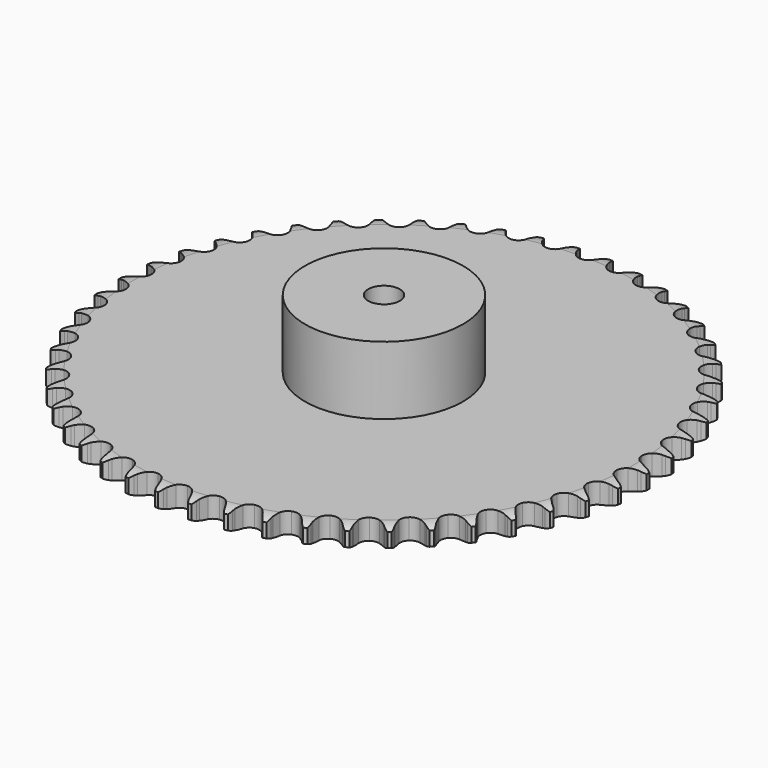
from build123d import *

# Parameters (mm, degrees)
PAD_DEPTH         = 16.2
SKETCH001_R       = 62.5
PAD001_DEPTH      = 70
SKETCH002_R       = 12.5
POCKET_DEPTH      = 0.0010001
POCKET_DEPTH_BACK = 70.001


with BuildPart() as part:
    # Sprocket → Pad (new body)
    with BuildSketch(Plane.XY):
        with BuildLine():
            ThreePointArc((-13.2146682661, 210.0411373515), (-11.3607319116, 207.756814352), (-10.0756342008, 205.1103572022))
            Line((-10.0756342008, 205.1103572022), (-9.3032388608, 202.9072080021))
            ThreePointArc((-9.3032388608, 202.9072080021), (-8.0852287828, 200.1113159985), (-6.4700463907, 197.524474974))
            ThreePointArc((-6.4700463907, 197.524474974), (-3.6275310123, 195.109578863), (0, 194.2420330958))
            ThreePointArc((0, 194.2420330958), (3.6275310123, 195.109578863), (6.4700463907, 197.524474974))
            ThreePointArc((6.4700463907, 197.524474974), (8.0852287828, 200.1113159985), (9.3032388608, 202.9072080021))
            Line((9.3032388608, 202.9072080021), (10.0756342008, 205.1103572022))
            ThreePointArc((10.0756342008, 205.1103572022), (11.3607319116, 207.756814352), (13.2146682661, 210.0411373515))
            ThreePointArc((13.2146682661, 210.0411373515), (14.7676841905, 207.5424670831), (15.71095949, 204.7558125868))
            Line((15.71095949, 204.7558125868), (16.2011364487, 202.4732290706))
            ThreePointArc((16.2011364487, 202.4732290706), (17.059123968, 199.546726369), (18.3373530142, 196.7778473266))
            ThreePointArc((18.3373530142, 196.7778473266), (20.8547875715, 194.0257317489), (24.344982102, 192.7103766476))
            ThreePointArc((24.344982102, 192.7103766476), (28.0526412651, 193.1164313656), (31.175409299, 195.1560236557))
            Line((31.175409299, 195.1560236557), (34.6608965361, 200.1412190525))
            ThreePointArc((34.6608965361, 200.1412190525), (35.1526702199, 201.2003963827), (35.7033291213, 202.2301889576))
            ThreePointArc((35.7033291213, 202.2301889576), (37.309982485, 204.6947125508), (39.4356015855, 206.728663143))
            ThreePointArc((39.4356015855, 206.728663143), (40.6632050912, 204.0550511283), (41.2497819644, 201.1721464916))
            Line((41.2497819644, 201.1721464916), (41.4500101584, 198.846126365))
            ThreePointArc((41.4500101584, 198.846126365), (41.9344441432, 195.8351656611), (42.8555614078, 192.9279154774))
            ThreePointArc((42.8555614078, 192.9279154774), (45.0082136972, 189.8819829397), (48.3060292933, 188.13956244))
            ThreePointArc((48.3060292933, 188.13956244), (52.0353446072, 188.0777223834), (55.3891173793, 189.7098452637))
            Line((55.3891173793, 189.7098452637), (59.4719311675, 194.2188835198))
            ThreePointArc((59.4719311675, 194.2188835198), (60.0925771887, 195.2080733345), (60.7679612135, 196.1607298266))
            ThreePointArc((60.7679612135, 196.1607298266), (62.6708323466, 198.4044528539), (65.0346119103, 200.155954423))
            ThreePointArc((65.0346119103, 200.155954423), (65.9174429566, 197.3495651207), (66.1380707358, 194.4158754719))
            Line((66.1380707358, 194.4158754719), (66.0451924468, 192.0831014617))
            ThreePointArc((66.0451924468, 192.0831014617), (66.1484330838, 189.0351674046), (66.6979119974, 186.0353951517))
            ThreePointArc((66.6979119974, 186.0353951517), (68.4518334063, 182.7436818296), (71.505261546, 180.6016749436))
            ThreePointArc((71.505261546, 180.6016749436), (75.1974194805, 180.0729153671), (78.7293059908, 181.2718292848))
            Line((78.7293059908, 181.2718292848), (83.3450579177, 185.2336001734))
            ThreePointArc((83.3450579177, 185.2336001734), (84.0847883177, 186.1372023581), (84.8742462563, 186.9976988056))
            ThreePointArc((84.8742462563, 186.9976988056), (87.0433257444, 188.9852364144), (89.6079875555, 190.4266667344))
            ThreePointArc((89.6079875555, 190.4266667344), (90.1321233694, 187.5317585802), (89.9833226227, 184.5935499576))
            Line((89.9833226227, 184.5935499576), (89.5988025969, 182.2908113035))
            ThreePointArc((89.5988025969, 182.2908113035), (89.3192217196, 179.2539716339), (89.4883966714, 176.2089855122))
            ThreePointArc((89.4883966714, 176.2089855122), (90.8159268115, 172.7234036913), (93.5768131089, 170.2155911472))
            ThreePointArc((93.5768131089, 170.2155911472), (97.1735861278, 169.2282509051), (100.8278864161, 169.9750482715))
            Line((100.8278864161, 169.9750482715), (105.9037833165, 173.327072299))
            ThreePointArc((105.9037833165, 173.327072299), (106.750932105, 174.1308365076), (107.6420137343, 174.8856023673))
            ThreePointArc((107.6420137343, 174.8856023673), (110.0430938981, 176.5856099024), (112.7681917077, 177.694236756))
            ThreePointArc((112.7681917077, 177.694236756), (112.9253663544, 174.7564641809), (112.4094837584, 171.8600738896))
            Line((112.4094837584, 171.8600738896), (111.7393861063, 169.6236861558))
            ThreePointArc((111.7393861063, 169.6236861558), (111.0813928721, 166.6458336495), (110.8675958721, 163.6036549091))
            ThreePointArc((110.8675958721, 163.6036549091), (111.7477988001, 159.9791742968), (114.172602429, 157.1451057965))
            ThreePointArc((114.172602429, 157.1451057965), (117.6172672732, 155.7147558342), (121.336350841, 155.9976592088))
            Line((121.336350841, 155.9976592088), (126.7923427886, 158.6870729539))
            ThreePointArc((126.7923427886, 158.6870729539), (127.7335499232, 159.3783233447), (128.7122023534, 160.0154555082))
            ThreePointArc((128.7122023534, 160.0154555082), (131.3074167244, 161.4011228351), (134.1499741122, 162.1594625145))
            ThreePointArc((134.1499741122, 162.1594625145), (133.9377088535, 159.225155947), (133.062880185, 156.4162617921))
            Line((133.062880185, 156.4162617921), (132.1177727469, 154.2814941491))
            ThreePointArc((132.1177727469, 154.2814941491), (131.0917441022, 151.409591319), (130.4983468567, 148.4181969359))
            ThreePointArc((130.4983468567, 148.4181969359), (130.9173412466, 144.7119777567), (132.9678216055, 141.5963482534))
            ThreePointArc((132.9678216055, 141.5963482534), (136.2060538526, 139.7455460444), (139.9312685303, 139.5600938719))
            Line((139.9312685303, 139.5600938719), (145.6813112728, 141.5444836732))
            ThreePointArc((145.6813112728, 141.5444836732), (146.7017333547, 142.1123188146), (147.7525226525, 142.6217693271))
            ThreePointArc((147.7525226525, 142.6217693271), (150.5009431498, 143.6712436443), (153.4161312877, 144.0673366799))
            ThreePointArc((153.4161312877, 144.0673366799), (152.8377736736, 141.1827718873), (151.6177955033, 138.5056718077))
            Line((151.6177955033, 138.5056718077), (150.412583188, 136.5061908164))
            ThreePointArc((150.412583188, 136.5061908164), (149.0347002174, 133.7855292856), (148.0710609556, 130.8920953364))
            ThreePointArc((148.0710609556, 130.8920953364), (148.0222390155, 127.1625868806), (149.666058804, 123.8145317128))
            ThreePointArc((149.666058804, 123.8145317128), (152.6467895971, 121.5724655134), (156.319386524, 120.9215824855))
            Line((156.319386524, 120.9215824855), (162.2727984525, 122.1696533304))
            ThreePointArc((162.2727984525, 122.1696533304), (163.3563428159, 122.605118123), (164.4626974063, 122.9788526455))
            ThreePointArc((164.4626974063, 122.9788526455), (167.3209797967, 123.6755831162), (170.2628244264, 123.7031828841))
            ThreePointArc((170.2628244264, 123.7031828841), (169.3274955019, 120.9138511764), (167.7816076143, 118.4107646395))
            Line((167.7816076143, 118.4107646395), (166.3352973401, 116.5781033097))
            ThreePointArc((166.3352973401, 116.5781033097), (164.6272900811, 114.0515895359), (163.3086059698, 111.3017472022))
            ThreePointArc((163.3086059698, 111.3017472022), (162.7927376509, 107.6077660462), (164.0039728491, 104.0800860439))
            ThreePointArc((164.0039728491, 104.0800860439), (166.680194283, 101.4821145775), (170.2422544116, 100.3760655083))
            Line((170.2422544116, 100.3760655083), (176.3051466635, 100.8681345741))
            ThreePointArc((176.3051466635, 100.8681345741), (177.4347251665, 101.1643614779), (178.5791971767, 101.3964859938))
            ThreePointArc((178.5791971767, 101.3964859938), (181.5022646396, 101.7294847622), (184.4243711138, 101.3881559975))
            ThreePointArc((184.4243711138, 101.3881559975), (183.1468215749, 98.7380468021), (181.2994035455, 96.4484489778))
            Line((181.2994035455, 96.4484489778), (179.6348044892, 94.8115094734))
            ThreePointArc((179.6348044892, 94.8115094734), (177.6236092367, 92.518988088), (175.970676712, 89.9561040262))
            ThreePointArc((175.970676712, 89.9561040262), (174.9958975659, 86.3559064594), (175.7554462711, 82.7042352437))
            ThreePointArc((175.7554462711, 82.7042352437), (178.084952735, 79.7913300722), (181.4803002492, 78.2475580162))
            Line((181.4803002492, 78.2475580162), (187.557057392, 77.9758650797))
            ThreePointArc((187.557057392, 77.9758650797), (188.7148559069, 78.1281824196), (189.8793963296, 78.2150361866))
            ThreePointArc((189.8793963296, 78.2150361866), (192.8211503449, 78.1790516632), (195.677435299, 77.4741773246))
            ThreePointArc((195.677435299, 77.4741773246), (194.077812865, 75.0050844464), (191.9579995796, 72.9650836603))
            Line((191.9579995796, 72.9650836603), (190.1013634629, 71.5496814951))
            ThreePointArc((190.1013634629, 71.5496814951), (187.8186979675, 69.5273069299), (185.8575847627, 67.1917993526))
            ThreePointArc((185.8575847627, 67.1917993526), (184.4392676388, 63.7421626413), (184.7351513142, 60.0240892486))
            ThreePointArc((184.7351513142, 60.0240892486), (186.6812050997, 56.8421886267), (189.8562933409, 54.8850397913))
            Line((189.8562933409, 54.8850397913), (195.8510812843, 53.8538696125))
            ThreePointArc((195.8510812843, 53.8538696125), (197.0188406368, 53.859875253), (198.1850839739, 53.8000885353))
            ThreePointArc((198.1850839739, 53.8000885353), (201.0991313235, 53.3956882175), (203.8445494375, 52.3383845944))
            ThreePointArc((203.8445494375, 52.3383845944), (201.9480811098, 50.0892471032), (199.5893032903, 48.3310153861))
            Line((199.5893032903, 48.3310153861), (197.5699103737, 47.1594722978))
            ThreePointArc((197.5699103737, 47.1594722978), (195.0517736338, 45.4391386078), (192.8134076757, 43.3678398647))
            ThreePointArc((192.8134076757, 43.3678398647), (190.9739202824, 40.1231668406), (190.8014726657, 36.3973275093))
            ThreePointArc((190.8014726657, 36.3973275093), (192.3333833419, 32.9966119106), (195.238139272, 30.6569517023))
            Line((195.238139272, 30.6569517023), (201.056416629, 28.8825664508))
            ThreePointArc((201.056416629, 28.8825664508), (202.2157205565, 28.7421656794), (203.365274454, 28.5366813493))
            ThreePointArc((203.365274454, 28.5366813493), (206.2056588703, 27.7702428717), (208.7969132605, 26.3771842737))
            ThreePointArc((208.7969132605, 26.3771842737), (206.6335074775, 24.3834724112), (204.0729644592, 22.9347381278))
            Line((204.0729644592, 22.9347381278), (201.9226617754, 22.0255300508))
            ThreePointArc((201.9226617754, 22.0255300508), (199.2087663117, 20.6343679259), (196.7284479686, 18.8599436355))
            ThreePointArc((196.7284479686, 18.8599436355), (194.4968001208, 15.8714047304), (193.8587408139, 12.1965581725))
            ThreePointArc((193.8587408139, 12.1965581725), (194.9523492345, 8.6306589135), (197.5409631171, 5.9453851713))
            Line((197.5409631171, 5.9453851713), (203.0909721782, 3.4557679626))
            ThreePointArc((203.0909721782, 3.4557679626), (204.2235377653, 3.1711749832), (205.3382730713, 2.8232336513))
            ThreePointArc((205.3382730713, 2.8232336513), (208.0601999954, 1.7068442066), (210.4564250321, 0))
            ThreePointArc((210.4564250321, 0), (208.0601999954, -1.7068442066), (205.3382730713, -2.8232336513))
            Line((205.3382730713, -2.8232336513), (203.0909721782, -3.4557679626))
            ThreePointArc((203.0909721782, -3.4557679626), (200.2241177432, -4.4958190646), (197.5409631171, -5.9453851713))
            ThreePointArc((197.5409631171, -5.9453851713), (194.9523492345, -8.6306589135), (193.8587408139, -12.1965581725))
            ThreePointArc((193.8587408139, -12.1965581725), (194.4968001208, -15.8714047304), (196.7284479686, -18.8599436355))
            Line((196.7284479686, -18.8599436355), (201.9226617754, -22.0255300508))
            ThreePointArc((201.9226617754, -22.0255300508), (203.0106277862, -22.4498270367), (204.0729644592, -22.9347381278))
            ThreePointArc((204.0729644592, -22.9347381278), (206.6335074775, -24.3834724112), (208.7969132605, -26.3771842737))
            ThreePointArc((208.7969132605, -26.3771842737), (206.2056588703, -27.7702428717), (203.365274454, -28.5366813493))
            Line((203.365274454, -28.5366813493), (201.056416629, -28.8825664508))
            ThreePointArc((201.056416629, -28.8825664508), (198.0818152299, -29.5551043027), (195.238139272, -30.6569517023))
            ThreePointArc((195.238139272, -30.6569517023), (192.3333833419, -32.9966119106), (190.8014726657, -36.3973275093))
            ThreePointArc((190.8014726657, -36.3973275093), (190.9739202824, -40.1231668406), (192.8134076757, -43.3678398647))
            Line((192.8134076757, -43.3678398647), (197.5699103737, -47.1594722978))
            ThreePointArc((197.5699103737, -47.1594722978), (198.5961189343, -47.7167818735), (199.5893032903, -48.3310153861))
            ThreePointArc((199.5893032903, -48.3310153861), (201.9480811098, -50.0892471032), (203.8445494375, -52.3383845944))
            ThreePointArc((203.8445494375, -52.3383845944), (201.0991313235, -53.3956882175), (198.1850839739, -53.8000885353))
            Line((198.1850839739, -53.8000885353), (195.8510812843, -53.8538696125))
            ThreePointArc((195.8510812843, -53.8538696125), (192.8156441621, -54.1482878907), (189.8562933409, -54.8850397913))
            ThreePointArc((189.8562933409, -54.8850397913), (186.6812050997, -56.8421886267), (184.7351513142, -60.0240892486))
            ThreePointArc((184.7351513142, -60.0240892486), (184.4392676388, -63.7421626413), (185.8575847627, -67.1917993526))
            Line((185.8575847627, -67.1917993526), (190.1013634629, -71.5496814951))
            ThreePointArc((190.1013634629, -71.5496814951), (191.0496306513, -72.2312145555), (191.9579995796, -72.9650836603))
            ThreePointArc((191.9579995796, -72.9650836603), (194.077812865, -75.0050844464), (195.677435299, -77.4741773246))
            ThreePointArc((195.677435299, -77.4741773246), (192.8211503449, -78.1790516632), (189.8793963296, -78.2150361866))
            Line((189.8793963296, -78.2150361866), (187.557057392, -77.9758650797))
            ThreePointArc((187.557057392, -77.9758650797), (184.5086552033, -77.8875206319), (181.4803002492, -78.2475580162))
            ThreePointArc((181.4803002492, -78.2475580162), (178.084952735, -79.7913300722), (175.7554462711, -82.7042352437))
            ThreePointArc((175.7554462711, -82.7042352437), (174.9958975659, -86.3559064594), (175.970676712, -89.9561040262))
            Line((175.970676712, -89.9561040262), (179.6348044892, -94.8115094734))
            ThreePointArc((179.6348044892, -94.8115094734), (180.4901755653, -95.6065178351), (181.2994035455, -96.4484489778))
            ThreePointArc((181.2994035455, -96.4484489778), (183.1468215749, -98.7380468021), (184.4243711138, -101.3881559975))
            ThreePointArc((184.4243711138, -101.3881559975), (181.5022646396, -101.7294847622), (178.5791971767, -101.3964859938))
            Line((178.5791971767, -101.3964859938), (176.3051466635, -100.8681345741))
            ThreePointArc((176.3051466635, -100.8681345741), (173.2918545319, -100.3984206451), (170.2422544116, -100.3760655083))
            ThreePointArc((170.2422544116, -100.3760655083), (166.680194283, -101.4821145775), (164.0039728491, -104.0800860439))
            ThreePointArc((164.0039728491, -104.0800860439), (162.7927376509, -107.6077660462), (163.3086059698, -111.3017472022))
            Line((163.3086059698, -111.3017472022), (166.3352973401, -116.5781033097))
            ThreePointArc((166.3352973401, -116.5781033097), (167.0842825911, -117.4740492158), (167.7816076143, -118.4107646395))
            ThreePointArc((167.7816076143, -118.4107646395), (169.3274955019, -120.9138511764), (170.2628244264, -123.7031828841))
            ThreePointArc((170.2628244264, -123.7031828841), (167.3209797967, -123.6755831162), (164.4626974063, -122.9788526455))
            Line((164.4626974063, -122.9788526455), (162.2727984525, -122.1696533304))
            ThreePointArc((162.2727984525, -122.1696533304), (159.3421377949, -121.3259775896), (156.319386524, -120.9215824855))
            ThreePointArc((156.319386524, -120.9215824855), (152.6467895971, -121.5724655134), (149.666058804, -123.8145317128))
            ThreePointArc((149.666058804, -123.8145317128), (148.0222390155, -127.1625868806), (148.0710609556, -130.8920953364))
            Line((148.0710609556, -130.8920953364), (150.412583188, -136.5061908164))
            ThreePointArc((150.412583188, -136.5061908164), (151.0433706691, -137.4889446649), (151.6177955033, -138.5056718077))
            ThreePointArc((151.6177955033, -138.5056718077), (152.8377736736, -141.1827718873), (153.4161312877, -144.0673366799))
            ThreePointArc((153.4161312877, -144.0673366799), (150.5009431498, -143.6712436443), (147.7525226525, -142.6217693271))
            Line((147.7525226525, -142.6217693271), (145.6813112728, -141.5444836732))
            ThreePointArc((145.6813112728, -141.5444836732), (142.8795003585, -140.3401513909), (139.9312685303, -139.5600938719))
            ThreePointArc((139.9312685303, -139.5600938719), (136.2060538526, -139.7455460444), (132.9678216055, -141.5963482534))
            ThreePointArc((132.9678216055, -141.5963482534), (130.9173412466, -144.7119777567), (130.4983468567, -148.4181969359))
            Line((130.4983468567, -148.4181969359), (132.1177727469, -154.2814941491))
            ThreePointArc((132.1177727469, -154.2814941491), (132.6204145627, -155.3355573247), (133.062880185, -156.4162617921))
            ThreePointArc((133.062880185, -156.4162617921), (133.9377088535, -159.225155947), (134.1499741122, -162.1594625145))
            ThreePointArc((134.1499741122, -162.1594625145), (131.3074167244, -161.4011228351), (128.7122023534, -160.0154555082))
            Line((128.7122023534, -160.0154555082), (126.7923427886, -158.6870729539))
            ThreePointArc((126.7923427886, -158.6870729539), (124.1635678495, -157.1410771696), (121.336350841, -155.9976592088))
            ThreePointArc((121.336350841, -155.9976592088), (117.6172672732, -155.7147558342), (114.172602429, -157.1451057965))
            ThreePointArc((114.172602429, -157.1451057965), (111.7477988001, -159.9791742968), (110.8675958721, -163.6036549091))
            Line((110.8675958721, -163.6036549091), (111.7393861063, -169.6236861558))
            ThreePointArc((111.7393861063, -169.6236861558), (112.1059552951, -170.7324354525), (112.4094837584, -171.8600738896))
            ThreePointArc((112.4094837584, -171.8600738896), (112.9253663544, -174.7564641809), (112.7681917077, -177.694236756))
            ThreePointArc((112.7681917077, -177.694236756), (110.0430938981, -176.5856099024), (107.6420137343, -174.8856023673))
            Line((107.6420137343, -174.8856023673), (105.9037833165, -173.327072299))
            ThreePointArc((105.9037833165, -173.327072299), (103.4895017037, -171.4637942898), (100.8278864161, -169.9750482715))
            ThreePointArc((100.8278864161, -169.9750482715), (97.1735861278, -169.2282509051), (93.5768131089, -170.2155911472))
            ThreePointArc((93.5768131089, -170.2155911472), (90.8159268115, -172.7234036913), (89.4883966714, -176.2089855122))
            Line((89.4883966714, -176.2089855122), (89.5988025969, -182.2908113035))
            ThreePointArc((89.5988025969, -182.2908113035), (89.8235181436, -183.4367610826), (89.9833226227, -184.5935499576))
            ThreePointArc((89.9833226227, -184.5935499576), (90.1321233694, -187.5317585802), (89.6079875555, -190.4266667344))
            ThreePointArc((89.6079875555, -190.4266667344), (87.0433257444, -188.9852364144), (84.8742462563, -186.9976988056))
            Line((84.8742462563, -186.9976988056), (83.3450579177, -185.2336001734))
            ThreePointArc((83.3450579177, -185.2336001734), (81.1833442944, -183.0824249465), (78.7293059908, -181.2718292848))
            ThreePointArc((78.7293059908, -181.2718292848), (75.1974194805, -180.0729153671), (71.505261546, -180.6016749436))
            ThreePointArc((71.505261546, -180.6016749436), (68.4518334063, -182.7436818296), (66.6979119974, -186.0353951517))
            Line((66.6979119974, -186.0353951517), (66.0451924468, -192.0831014617))
            ThreePointArc((66.0451924468, -192.0831014617), (66.124510453, -193.2481794106), (66.1380707358, -194.4158754719))
            ThreePointArc((66.1380707358, -194.4158754719), (65.9174429566, -197.3495651207), (65.0346119103, -200.155954423))
            ThreePointArc((65.0346119103, -200.155954423), (62.6708323466, -198.4044528539), (60.7679612135, -196.1607298266))
            Line((60.7679612135, -196.1607298266), (59.4719311675, -194.2188835198))
            ThreePointArc((59.4719311675, -194.2188835198), (57.596877049, -191.8137363937), (55.3891173793, -189.7098452637))
            ThreePointArc((55.3891173793, -189.7098452637), (52.0353446072, -188.0777223834), (48.3060292933, -188.13956244))
            ThreePointArc((48.3060292933, -188.13956244), (45.0082136972, -189.8819829397), (42.8555614078, -192.9279154774))
            Line((42.8555614078, -192.9279154774), (41.4500101584, -198.846126365))
            ThreePointArc((41.4500101584, -198.846126365), (41.3826797317, -200.0119585084), (41.2497819644, -201.1721464916))
            ThreePointArc((41.2497819644, -201.1721464916), (40.6632050912, -204.0550511283), (39.4356015855, -206.728663143))
            ThreePointArc((39.4356015855, -206.728663143), (37.309982485, -204.6947125508), (35.7033291213, -202.2301889576))
            Line((35.7033291213, -202.2301889576), (34.6608965361, -200.1412190525))
            ThreePointArc((34.6608965361, -200.1412190525), (33.1020726458, -197.520030634), (31.175409299, -195.1560236557))
            ThreePointArc((31.175409299, -195.1560236557), (28.0526412651, -193.1164313656), (24.344982102, -192.7103766476))
            ThreePointArc((24.344982102, -192.7103766476), (20.8547875715, -194.0257317489), (18.3373530142, -196.7778473266))
            Line((18.3373530142, -196.7778473266), (16.2011364487, -202.4732290706))
            ThreePointArc((16.2011364487, -202.4732290706), (15.9882194302, -203.6214295392), (15.71095949, -204.7558125868))
            ThreePointArc((15.71095949, -204.7558125868), (14.7676841905, -207.5424670831), (13.2146682661, -210.0411373515))
            ThreePointArc((13.2146682661, -210.0411373515), (11.3607319116, -207.756814352), (10.0756342008, -205.1103572022))
            Line((10.0756342008, -205.1103572022), (9.3032388608, -202.9072080021))
            ThreePointArc((9.3032388608, -202.9072080021), (8.0852287828, -200.1113159985), (6.4700463907, -197.524474974))
            ThreePointArc((6.4700463907, -197.524474974), (3.6275310123, -195.109578863), (0, -194.2420330958))
            ThreePointArc((0, -194.2420330958), (-3.6275310123, -195.109578863), (-6.4700463907, -197.524474974))
            Line((-6.4700463907, -197.524474974), (-9.3032388608, -202.9072080021))
            ThreePointArc((-9.3032388608, -202.9072080021), (-9.6583846426, -204.0196689887), (-10.0756342008, -205.1103572022))
            ThreePointArc((-10.0756342008, -205.1103572022), (-11.3607319116, -207.756814352), (-13.2146682661, -210.0411373515))
            ThreePointArc((-13.2146682661, -210.0411373515), (-14.7676841905, -207.5424670831), (-15.71095949, -204.7558125868))
            Line((-15.71095949, -204.7558125868), (-16.2011364487, -202.4732290706))
            ThreePointArc((-16.2011364487, -202.4732290706), (-17.059123968, -199.546726369), (-18.3373530142, -196.7778473266))
            ThreePointArc((-18.3373530142, -196.7778473266), (-20.8547875715, -194.0257317489), (-24.344982102, -192.7103766476))
            ThreePointArc((-24.344982102, -192.7103766476), (-28.0526412651, -193.1164313656), (-31.175409299, -195.1560236557))
            Line((-31.175409299, -195.1560236557), (-34.6608965361, -200.1412190525))
            ThreePointArc((-34.6608965361, -200.1412190525), (-35.1526702199, -201.2003963827), (-35.7033291213, -202.2301889576))
            ThreePointArc((-35.7033291213, -202.2301889576), (-37.309982485, -204.6947125508), (-39.4356015855, -206.728663143))
            ThreePointArc((-39.4356015855, -206.728663143), (-40.6632050912, -204.0550511283), (-41.2497819644, -201.1721464916))
            Line((-41.2497819644, -201.1721464916), (-41.4500101584, -198.846126365))
            ThreePointArc((-41.4500101584, -198.846126365), (-41.9344441432, -195.8351656611), (-42.8555614078, -192.9279154774))
            ThreePointArc((-42.8555614078, -192.9279154774), (-45.0082136972, -189.8819829397), (-48.3060292933, -188.13956244))
            ThreePointArc((-48.3060292933, -188.13956244), (-52.0353446072, -188.0777223834), (-55.3891173793, -189.7098452637))
            Line((-55.3891173793, -189.7098452637), (-59.4719311675, -194.2188835198))
            ThreePointArc((-59.4719311675, -194.2188835198), (-60.0925771887, -195.2080733345), (-60.7679612135, -196.1607298266))
            ThreePointArc((-60.7679612135, -196.1607298266), (-62.6708323466, -198.4044528539), (-65.0346119103, -200.155954423))
            ThreePointArc((-65.0346119103, -200.155954423), (-65.9174429566, -197.3495651207), (-66.1380707358, -194.4158754719))
            Line((-66.1380707358, -194.4158754719), (-66.0451924468, -192.0831014617))
            ThreePointArc((-66.0451924468, -192.0831014617), (-66.1484330838, -189.0351674046), (-66.6979119974, -186.0353951517))
            ThreePointArc((-66.6979119974, -186.0353951517), (-68.4518334063, -182.7436818296), (-71.505261546, -180.6016749436))
            ThreePointArc((-71.505261546, -180.6016749436), (-75.1974194805, -180.0729153671), (-78.7293059908, -181.2718292848))
            Line((-78.7293059908, -181.2718292848), (-83.3450579177, -185.2336001734))
            ThreePointArc((-83.3450579177, -185.2336001734), (-84.0847883177, -186.1372023581), (-84.8742462563, -186.9976988056))
            ThreePointArc((-84.8742462563, -186.9976988056), (-87.0433257444, -188.9852364144), (-89.6079875555, -190.4266667344))
            ThreePointArc((-89.6079875555, -190.4266667344), (-90.1321233694, -187.5317585802), (-89.9833226227, -184.5935499576))
            Line((-89.9833226227, -184.5935499576), (-89.5988025969, -182.2908113035))
            ThreePointArc((-89.5988025969, -182.2908113035), (-89.3192217196, -179.2539716339), (-89.4883966714, -176.2089855122))
            ThreePointArc((-89.4883966714, -176.2089855122), (-90.8159268115, -172.7234036913), (-93.5768131089, -170.2155911472))
            ThreePointArc((-93.5768131089, -170.2155911472), (-97.1735861278, -169.2282509051), (-100.8278864161, -169.9750482715))
            Line((-100.8278864161, -169.9750482715), (-105.9037833165, -173.327072299))
            ThreePointArc((-105.9037833165, -173.327072299), (-106.750932105, -174.1308365076), (-107.6420137343, -174.8856023673))
            ThreePointArc((-107.6420137343, -174.8856023673), (-110.0430938981, -176.5856099024), (-112.7681917077, -177.694236756))
            ThreePointArc((-112.7681917077, -177.694236756), (-112.9253663544, -174.7564641809), (-112.4094837584, -171.8600738896))
            Line((-112.4094837584, -171.8600738896), (-111.7393861063, -169.6236861558))
            ThreePointArc((-111.7393861063, -169.6236861558), (-111.0813928721, -166.6458336495), (-110.8675958721, -163.6036549091))
            ThreePointArc((-110.8675958721, -163.6036549091), (-111.7477988001, -159.9791742968), (-114.172602429, -157.1451057965))
            ThreePointArc((-114.172602429, -157.1451057965), (-117.6172672732, -155.7147558342), (-121.336350841, -155.9976592088))
            Line((-121.336350841, -155.9976592088), (-126.7923427886, -158.6870729539))
            ThreePointArc((-126.7923427886, -158.6870729539), (-127.7335499232, -159.3783233447), (-128.7122023534, -160.0154555082))
            ThreePointArc((-128.7122023534, -160.0154555082), (-131.3074167244, -161.4011228351), (-134.1499741122, -162.1594625145))
            ThreePointArc((-134.1499741122, -162.1594625145), (-133.9377088535, -159.225155947), (-133.062880185, -156.4162617921))
            Line((-133.062880185, -156.4162617921), (-132.1177727469, -154.2814941491))
            ThreePointArc((-132.1177727469, -154.2814941491), (-131.0917441022, -151.409591319), (-130.4983468567, -148.4181969359))
            ThreePointArc((-130.4983468567, -148.4181969359), (-130.9173412466, -144.7119777567), (-132.9678216055, -141.5963482534))
            ThreePointArc((-132.9678216055, -141.5963482534), (-136.2060538526, -139.7455460444), (-139.9312685303, -139.5600938719))
            Line((-139.9312685303, -139.5600938719), (-145.6813112728, -141.5444836732))
            ThreePointArc((-145.6813112728, -141.5444836732), (-146.7017333547, -142.1123188146), (-147.7525226525, -142.6217693271))
            ThreePointArc((-147.7525226525, -142.6217693271), (-150.5009431498, -143.6712436443), (-153.4161312877, -144.0673366799))
            ThreePointArc((-153.4161312877, -144.0673366799), (-152.8377736736, -141.1827718873), (-151.6177955033, -138.5056718077))
            Line((-151.6177955033, -138.5056718077), (-150.412583188, -136.5061908164))
            ThreePointArc((-150.412583188, -136.5061908164), (-149.0347002174, -133.7855292856), (-148.0710609556, -130.8920953364))
            ThreePointArc((-148.0710609556, -130.8920953364), (-148.0222390155, -127.1625868806), (-149.666058804, -123.8145317128))
            ThreePointArc((-149.666058804, -123.8145317128), (-152.6467895971, -121.5724655134), (-156.319386524, -120.9215824855))
            Line((-156.319386524, -120.9215824855), (-162.2727984525, -122.1696533304))
            ThreePointArc((-162.2727984525, -122.1696533304), (-163.3563428159, -122.605118123), (-164.4626974063, -122.9788526455))
            ThreePointArc((-164.4626974063, -122.9788526455), (-167.3209797967, -123.6755831162), (-170.2628244264, -123.7031828841))
            ThreePointArc((-170.2628244264, -123.7031828841), (-169.3274955019, -120.9138511764), (-167.7816076143, -118.4107646395))
            Line((-167.7816076143, -118.4107646395), (-166.3352973401, -116.5781033097))
            ThreePointArc((-166.3352973401, -116.5781033097), (-164.6272900811, -114.0515895359), (-163.3086059698, -111.3017472022))
            ThreePointArc((-163.3086059698, -111.3017472022), (-162.7927376509, -107.6077660462), (-164.0039728491, -104.0800860439))
            ThreePointArc((-164.0039728491, -104.0800860439), (-166.680194283, -101.4821145775), (-170.2422544116, -100.3760655083))
            Line((-170.2422544116, -100.3760655083), (-176.3051466635, -100.8681345741))
            ThreePointArc((-176.3051466635, -100.8681345741), (-177.4347251665, -101.1643614779), (-178.5791971767, -101.3964859938))
            ThreePointArc((-178.5791971767, -101.3964859938), (-181.5022646396, -101.7294847622), (-184.4243711138, -101.3881559975))
            ThreePointArc((-184.4243711138, -101.3881559975), (-183.1468215749, -98.7380468021), (-181.2994035455, -96.4484489778))
            Line((-181.2994035455, -96.4484489778), (-179.6348044892, -94.8115094734))
            ThreePointArc((-179.6348044892, -94.8115094734), (-177.6236092367, -92.518988088), (-175.970676712, -89.9561040262))
            ThreePointArc((-175.970676712, -89.9561040262), (-174.9958975659, -86.3559064594), (-175.7554462711, -82.7042352437))
            ThreePointArc((-175.7554462711, -82.7042352437), (-178.084952735, -79.7913300722), (-181.4803002492, -78.2475580162))
            Line((-181.4803002492, -78.2475580162), (-187.557057392, -77.9758650797))
            ThreePointArc((-187.557057392, -77.9758650797), (-188.7148559069, -78.1281824196), (-189.8793963296, -78.2150361866))
            ThreePointArc((-189.8793963296, -78.2150361866), (-192.8211503449, -78.1790516632), (-195.677435299, -77.4741773246))
            ThreePointArc((-195.677435299, -77.4741773246), (-194.077812865, -75.0050844464), (-191.9579995796, -72.9650836603))
            Line((-191.9579995796, -72.9650836603), (-190.1013634629, -71.5496814951))
            ThreePointArc((-190.1013634629, -71.5496814951), (-187.8186979675, -69.5273069299), (-185.8575847627, -67.1917993526))
            ThreePointArc((-185.8575847627, -67.1917993526), (-184.4392676388, -63.7421626413), (-184.7351513142, -60.0240892486))
            ThreePointArc((-184.7351513142, -60.0240892486), (-186.6812050997, -56.8421886267), (-189.8562933409, -54.8850397913))
            Line((-189.8562933409, -54.8850397913), (-195.8510812843, -53.8538696125))
            ThreePointArc((-195.8510812843, -53.8538696125), (-197.0188406368, -53.859875253), (-198.1850839739, -53.8000885353))
            ThreePointArc((-198.1850839739, -53.8000885353), (-201.0991313235, -53.3956882175), (-203.8445494375, -52.3383845944))
            ThreePointArc((-203.8445494375, -52.3383845944), (-201.9480811098, -50.0892471032), (-199.5893032903, -48.3310153861))
            Line((-199.5893032903, -48.3310153861), (-197.5699103737, -47.1594722978))
            ThreePointArc((-197.5699103737, -47.1594722978), (-195.0517736338, -45.4391386078), (-192.8134076757, -43.3678398647))
            ThreePointArc((-192.8134076757, -43.3678398647), (-190.9739202824, -40.1231668406), (-190.8014726657, -36.3973275093))
            ThreePointArc((-190.8014726657, -36.3973275093), (-192.3333833419, -32.9966119106), (-195.238139272, -30.6569517023))
            Line((-195.238139272, -30.6569517023), (-201.056416629, -28.8825664508))
            ThreePointArc((-201.056416629, -28.8825664508), (-202.2157205565, -28.7421656794), (-203.365274454, -28.5366813493))
            ThreePointArc((-203.365274454, -28.5366813493), (-206.2056588703, -27.7702428717), (-208.7969132605, -26.3771842737))
            ThreePointArc((-208.7969132605, -26.3771842737), (-206.6335074775, -24.3834724112), (-204.0729644592, -22.9347381278))
            Line((-204.0729644592, -22.9347381278), (-201.9226617754, -22.0255300508))
            ThreePointArc((-201.9226617754, -22.0255300508), (-199.2087663117, -20.6343679259), (-196.7284479686, -18.8599436355))
            ThreePointArc((-196.7284479686, -18.8599436355), (-194.4968001208, -15.8714047304), (-193.8587408139, -12.1965581725))
            ThreePointArc((-193.8587408139, -12.1965581725), (-194.9523492345, -8.6306589135), (-197.5409631171, -5.9453851713))
            Line((-197.5409631171, -5.9453851713), (-203.0909721782, -3.4557679626))
            ThreePointArc((-203.0909721782, -3.4557679626), (-204.2235377653, -3.1711749832), (-205.3382730713, -2.8232336513))
            ThreePointArc((-205.3382730713, -2.8232336513), (-208.0601999954, -1.7068442066), (-210.4564250321, 0))
            ThreePointArc((-210.4564250321, 0), (-208.0601999954, 1.7068442066), (-205.3382730713, 2.8232336513))
            Line((-205.3382730713, 2.8232336513), (-203.0909721782, 3.4557679626))
            ThreePointArc((-203.0909721782, 3.4557679626), (-200.2241177432, 4.4958190646), (-197.5409631171, 5.9453851713))
            ThreePointArc((-197.5409631171, 5.9453851713), (-194.9523492345, 8.6306589135), (-193.8587408139, 12.1965581725))
            ThreePointArc((-193.8587408139, 12.1965581725), (-194.4968001208, 15.8714047304), (-196.7284479686, 18.8599436355))
            Line((-196.7284479686, 18.8599436355), (-201.9226617754, 22.0255300508))
            ThreePointArc((-201.9226617754, 22.0255300508), (-203.0106277862, 22.4498270367), (-204.0729644592, 22.9347381278))
            ThreePointArc((-204.0729644592, 22.9347381278), (-206.6335074775, 24.3834724112), (-208.7969132605, 26.3771842737))
            ThreePointArc((-208.7969132605, 26.3771842737), (-206.2056588703, 27.7702428717), (-203.365274454, 28.5366813493))
            Line((-203.365274454, 28.5366813493), (-201.056416629, 28.8825664508))
            ThreePointArc((-201.056416629, 28.8825664508), (-198.0818152299, 29.5551043027), (-195.238139272, 30.6569517023))
            ThreePointArc((-195.238139272, 30.6569517023), (-192.3333833419, 32.9966119106), (-190.8014726657, 36.3973275093))
            ThreePointArc((-190.8014726657, 36.3973275093), (-190.9739202824, 40.1231668406), (-192.8134076757, 43.3678398647))
            Line((-192.8134076757, 43.3678398647), (-197.5699103737, 47.1594722978))
            ThreePointArc((-197.5699103737, 47.1594722978), (-198.5961189343, 47.7167818735), (-199.5893032903, 48.3310153861))
            ThreePointArc((-199.5893032903, 48.3310153861), (-201.9480811098, 50.0892471032), (-203.8445494375, 52.3383845944))
            ThreePointArc((-203.8445494375, 52.3383845944), (-201.0991313235, 53.3956882175), (-198.1850839739, 53.8000885353))
            Line((-198.1850839739, 53.8000885353), (-195.8510812843, 53.8538696125))
            ThreePointArc((-195.8510812843, 53.8538696125), (-192.8156441621, 54.1482878907), (-189.8562933409, 54.8850397913))
            ThreePointArc((-189.8562933409, 54.8850397913), (-186.6812050997, 56.8421886267), (-184.7351513142, 60.0240892486))
            ThreePointArc((-184.7351513142, 60.0240892486), (-184.4392676388, 63.7421626413), (-185.8575847627, 67.1917993526))
            Line((-185.8575847627, 67.1917993526), (-190.1013634629, 71.5496814951))
            ThreePointArc((-190.1013634629, 71.5496814951), (-191.0496306513, 72.2312145555), (-191.9579995796, 72.9650836603))
            ThreePointArc((-191.9579995796, 72.9650836603), (-194.077812865, 75.0050844464), (-195.677435299, 77.4741773246))
            ThreePointArc((-195.677435299, 77.4741773246), (-192.8211503449, 78.1790516632), (-189.8793963296, 78.2150361866))
            Line((-189.8793963296, 78.2150361866), (-187.557057392, 77.9758650797))
            ThreePointArc((-187.557057392, 77.9758650797), (-184.5086552033, 77.8875206319), (-181.4803002492, 78.2475580162))
            ThreePointArc((-181.4803002492, 78.2475580162), (-178.084952735, 79.7913300722), (-175.7554462711, 82.7042352437))
            ThreePointArc((-175.7554462711, 82.7042352437), (-174.9958975659, 86.3559064594), (-175.970676712, 89.9561040262))
            Line((-175.970676712, 89.9561040262), (-179.6348044892, 94.8115094734))
            ThreePointArc((-179.6348044892, 94.8115094734), (-180.4901755653, 95.6065178351), (-181.2994035455, 96.4484489778))
            ThreePointArc((-181.2994035455, 96.4484489778), (-183.1468215749, 98.7380468021), (-184.4243711138, 101.3881559975))
            ThreePointArc((-184.4243711138, 101.3881559975), (-181.5022646396, 101.7294847622), (-178.5791971767, 101.3964859938))
            Line((-178.5791971767, 101.3964859938), (-176.3051466635, 100.8681345741))
            ThreePointArc((-176.3051466635, 100.8681345741), (-173.2918545319, 100.3984206451), (-170.2422544116, 100.3760655083))
            ThreePointArc((-170.2422544116, 100.3760655083), (-166.680194283, 101.4821145775), (-164.0039728491, 104.0800860439))
            ThreePointArc((-164.0039728491, 104.0800860439), (-162.7927376509, 107.6077660462), (-163.3086059698, 111.3017472022))
            Line((-163.3086059698, 111.3017472022), (-166.3352973401, 116.5781033097))
            ThreePointArc((-166.3352973401, 116.5781033097), (-167.0842825911, 117.4740492158), (-167.7816076143, 118.4107646395))
            ThreePointArc((-167.7816076143, 118.4107646395), (-169.3274955019, 120.9138511764), (-170.2628244264, 123.7031828841))
            ThreePointArc((-170.2628244264, 123.7031828841), (-167.3209797967, 123.6755831162), (-164.4626974063, 122.9788526455))
            Line((-164.4626974063, 122.9788526455), (-162.2727984525, 122.1696533304))
            ThreePointArc((-162.2727984525, 122.1696533304), (-159.3421377949, 121.3259775896), (-156.319386524, 120.9215824855))
            ThreePointArc((-156.319386524, 120.9215824855), (-152.6467895971, 121.5724655134), (-149.666058804, 123.8145317128))
            ThreePointArc((-149.666058804, 123.8145317128), (-148.0222390155, 127.1625868806), (-148.0710609556, 130.8920953364))
            Line((-148.0710609556, 130.8920953364), (-150.412583188, 136.5061908164))
            ThreePointArc((-150.412583188, 136.5061908164), (-151.0433706691, 137.4889446649), (-151.6177955033, 138.5056718077))
            ThreePointArc((-151.6177955033, 138.5056718077), (-152.8377736736, 141.1827718873), (-153.4161312877, 144.0673366799))
            ThreePointArc((-153.4161312877, 144.0673366799), (-150.5009431498, 143.6712436443), (-147.7525226525, 142.6217693271))
            Line((-147.7525226525, 142.6217693271), (-145.6813112728, 141.5444836732))
            ThreePointArc((-145.6813112728, 141.5444836732), (-142.8795003585, 140.3401513909), (-139.9312685303, 139.5600938719))
            ThreePointArc((-139.9312685303, 139.5600938719), (-136.2060538526, 139.7455460444), (-132.9678216055, 141.5963482534))
            ThreePointArc((-132.9678216055, 141.5963482534), (-130.9173412466, 144.7119777567), (-130.4983468567, 148.4181969359))
            Line((-130.4983468567, 148.4181969359), (-132.1177727469, 154.2814941491))
            ThreePointArc((-132.1177727469, 154.2814941491), (-132.6204145627, 155.3355573247), (-133.062880185, 156.4162617921))
            ThreePointArc((-133.062880185, 156.4162617921), (-133.9377088535, 159.225155947), (-134.1499741122, 162.1594625145))
            ThreePointArc((-134.1499741122, 162.1594625145), (-131.3074167244, 161.4011228351), (-128.7122023534, 160.0154555082))
            Line((-128.7122023534, 160.0154555082), (-126.7923427886, 158.6870729539))
            ThreePointArc((-126.7923427886, 158.6870729539), (-124.1635678495, 157.1410771696), (-121.336350841, 155.9976592088))
            ThreePointArc((-121.336350841, 155.9976592088), (-117.6172672732, 155.7147558342), (-114.172602429, 157.1451057965))
            ThreePointArc((-114.172602429, 157.1451057965), (-111.7477988001, 159.9791742968), (-110.8675958721, 163.6036549091))
            Line((-110.8675958721, 163.6036549091), (-111.7393861063, 169.6236861558))
            ThreePointArc((-111.7393861063, 169.6236861558), (-112.1059552951, 170.7324354525), (-112.4094837584, 171.8600738896))
            ThreePointArc((-112.4094837584, 171.8600738896), (-112.9253663544, 174.7564641809), (-112.7681917077, 177.694236756))
            ThreePointArc((-112.7681917077, 177.694236756), (-110.0430938981, 176.5856099024), (-107.6420137343, 174.8856023673))
            Line((-107.6420137343, 174.8856023673), (-105.9037833165, 173.327072299))
            ThreePointArc((-105.9037833165, 173.327072299), (-103.4895017037, 171.4637942898), (-100.8278864161, 169.9750482715))
            ThreePointArc((-100.8278864161, 169.9750482715), (-97.1735861278, 169.2282509051), (-93.5768131089, 170.2155911472))
            ThreePointArc((-93.5768131089, 170.2155911472), (-90.8159268115, 172.7234036913), (-89.4883966714, 176.2089855122))
            Line((-89.4883966714, 176.2089855122), (-89.5988025969, 182.2908113035))
            ThreePointArc((-89.5988025969, 182.2908113035), (-89.8235181436, 183.4367610826), (-89.9833226227, 184.5935499576))
            ThreePointArc((-89.9833226227, 184.5935499576), (-90.1321233694, 187.5317585802), (-89.6079875555, 190.4266667344))
            ThreePointArc((-89.6079875555, 190.4266667344), (-87.0433257444, 188.9852364144), (-84.8742462563, 186.9976988056))
            Line((-84.8742462563, 186.9976988056), (-83.3450579177, 185.2336001734))
            ThreePointArc((-83.3450579177, 185.2336001734), (-81.1833442944, 183.0824249465), (-78.7293059908, 181.2718292848))
            ThreePointArc((-78.7293059908, 181.2718292848), (-75.1974194805, 180.0729153671), (-71.505261546, 180.6016749436))
            ThreePointArc((-71.505261546, 180.6016749436), (-68.4518334063, 182.7436818296), (-66.6979119974, 186.0353951517))
            Line((-66.6979119974, 186.0353951517), (-66.0451924468, 192.0831014617))
            ThreePointArc((-66.0451924468, 192.0831014617), (-66.124510453, 193.2481794106), (-66.1380707358, 194.4158754719))
            ThreePointArc((-66.1380707358, 194.4158754719), (-65.9174429566, 197.3495651207), (-65.0346119103, 200.155954423))
            ThreePointArc((-65.0346119103, 200.155954423), (-62.6708323466, 198.4044528539), (-60.7679612135, 196.1607298266))
            Line((-60.7679612135, 196.1607298266), (-59.4719311675, 194.2188835198))
            ThreePointArc((-59.4719311675, 194.2188835198), (-57.596877049, 191.8137363937), (-55.3891173793, 189.7098452637))
            ThreePointArc((-55.3891173793, 189.7098452637), (-52.0353446072, 188.0777223834), (-48.3060292933, 188.13956244))
            ThreePointArc((-48.3060292933, 188.13956244), (-45.0082136972, 189.8819829397), (-42.8555614078, 192.9279154774))
            Line((-42.8555614078, 192.9279154774), (-41.4500101584, 198.846126365))
            ThreePointArc((-41.4500101584, 198.846126365), (-41.3826797317, 200.0119585084), (-41.2497819644, 201.1721464916))
            ThreePointArc((-41.2497819644, 201.1721464916), (-40.6632050912, 204.0550511283), (-39.4356015855, 206.728663143))
            ThreePointArc((-39.4356015855, 206.728663143), (-37.309982485, 204.6947125508), (-35.7033291213, 202.2301889576))
            Line((-35.7033291213, 202.2301889576), (-34.6608965361, 200.1412190525))
            ThreePointArc((-34.6608965361, 200.1412190525), (-33.1020726458, 197.520030634), (-31.175409299, 195.1560236557))
            ThreePointArc((-31.175409299, 195.1560236557), (-28.0526412651, 193.1164313656), (-24.344982102, 192.7103766476))
            ThreePointArc((-24.344982102, 192.7103766476), (-20.8547875715, 194.0257317489), (-18.3373530142, 196.7778473266))
            Line((-18.3373530142, 196.7778473266), (-16.2011364487, 202.4732290706))
            ThreePointArc((-16.2011364487, 202.4732290706), (-15.9882194302, 203.6214295392), (-15.71095949, 204.7558125868))
            ThreePointArc((-15.71095949, 204.7558125868), (-14.7676841905, 207.5424670831), (-13.2146682661, 210.0411373515))
        make_face()
    extrude(amount=PAD_DEPTH)

    # Sketch → Groove (revolve, cut)
    with BuildSketch(Plane.XZ):
        with BuildLine():
            Line((197.5757022694, 0), (208.7, 0))
            Line((219.8242977306, 0), (208.7, 0))
            Line((219.8242977306, 16.2), (219.8242977306, 0))
            Line((208.7, 16.2), (219.8242977306, 16.2))
            Line((197.5757022694, 16.2), (208.7, 16.2))
            ThreePointArc((208.7, 13.7), (203.2765793949, 15.5673017879), (197.5757022694, 16.2))
            Line((208.7, 2.5), (208.7, 13.7))
            ThreePointArc((197.5757022694, 0), (203.2765793949, 0.6326982121), (208.7, 2.5))
        make_face()
    revolve(axis=Axis((0, 0, 0), (0, 0, 1)), mode=Mode.SUBTRACT)

    # Sketch001 → Pad001 (join)
    with BuildSketch(Plane.XY):
        Circle(SKETCH001_R)
    extrude(amount=PAD001_DEPTH)

    # Sketch002 → Pocket (cut, two sides)
    with BuildSketch(Plane.XY) as pocket_sk:
        Circle(SKETCH002_R)
    extrude(amount=-POCKET_DEPTH, mode=Mode.SUBTRACT)
    extrude(pocket_sk.sketch, amount=POCKET_DEPTH_BACK, mode=Mode.SUBTRACT)


solid = part.part
